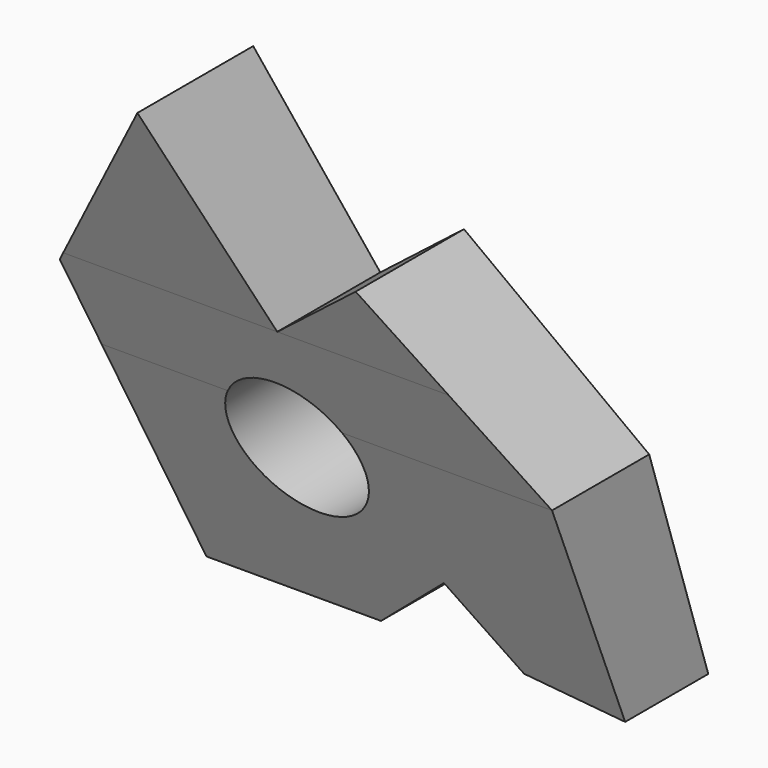
from build123d import *

# Parameters (mm, degrees)
F0_R          = 28
F1_DEPTH      = 300
F2_W          = 172
F2_H          = 82.5147330585
F2_H_2        = 38.0476616706
F2_H_3        = 90.998430119
F3_DEPTH      = 451
F3_DEPTH_BACK = 227


with BuildPart() as f1:
    # F0 (on Front) → F1 (new body)
    with BuildSketch(Plane.XZ):
        Polygon((9.1541220726, 38.0476616706), (-21.4288605859, 120.5623947291), (-81.1481285015, 34.1991557925), (-59.8068637145, -85.6642711367), (11.6542455026, -85.6642711367), (47.1931362855, -55.4605879139), (70.2525707923, -85.6642711367), (109.8953096981, -90.998430119), (109.3607857302, 0), (52.2950678135, 72.1630365121), align=None)
        with Locations((0, -15.3417913243)):
            Circle(F0_R, mode=Mode.SUBTRACT)
    extrude(amount=F1_DEPTH)

    # F2 (on Right) → F3 (cut, two sides)
    with BuildSketch(Plane.YZ) as f3_sk:
        with Locations((-214, 79.3050281999)):
            Rectangle(F2_W, F2_H)
        Polygon((-128, 38.0476616706), (-94.6618838266, 38.0476616706), (-128, 120.5623947291), align=None)
        with Locations((-214, 19.0238308353)):
            Rectangle(F2_W, F2_H_2)
        Polygon((-128, 0), (-79.2896306799, 0), (-94.6618838266, 38.0476616706), (-128, 38.0476616706), align=None)
        with Locations((-214, -45.4992150595)):
            Rectangle(F2_W, F2_H_3)
        Polygon((-128, -90.998430119), (-42.523878402, -90.998430119), (-79.2896306799, 0), (-128, 0), align=None)
        Polygon((-41.9296169443, 38.0476616706), (0, 38.0476616706), (0, 120.5623947291), (-68.7402789444, 120.5623947291), align=None)
        Polygon((-29.5671822719, 0), (0, 0), (0, 38.0476616706), (-41.9296169443, 38.0476616706), align=None)
        Polygon((-29.5671822719, 0), (0, -90.998430119), (0, 0), align=None)
    extrude(amount=F3_DEPTH, mode=Mode.SUBTRACT)
    extrude(f3_sk.sketch, amount=-F3_DEPTH_BACK, mode=Mode.SUBTRACT)


solid = f1.part
